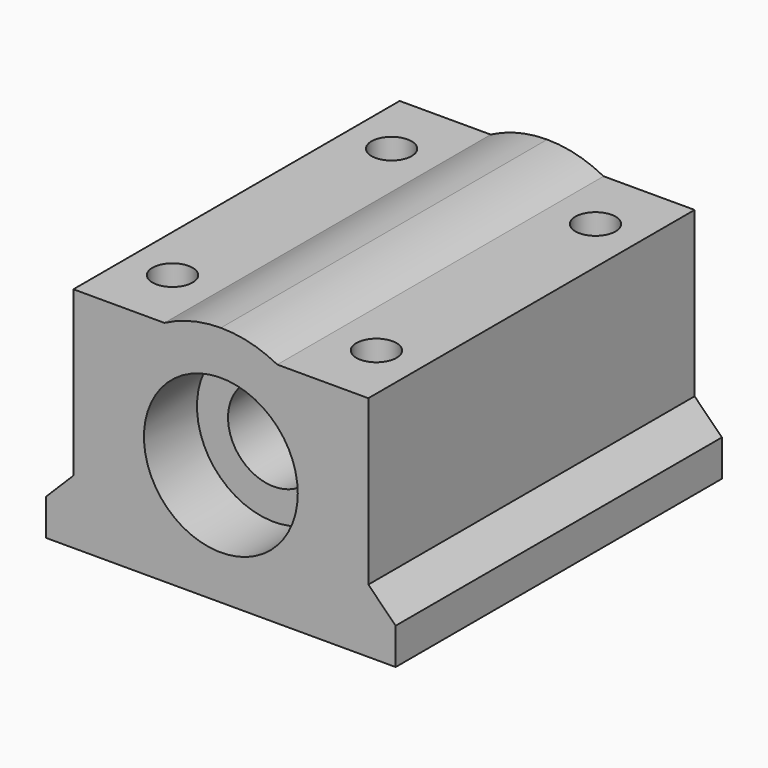
from build123d import *

# Parameters (mm, degrees)
F0_W     = 30.48
F0_H     = 35.56
F0_R     = 1.75
F1_DEPTH = 21.082
F2_R     = 4
F3_DEPTH = 35.56
F4_R     = 6.706248
F5_DEPTH = 5.779999
F6_R     = 6.706248
F7_DEPTH = 5.779999


with BuildPart() as f1:
    # F0 (on Top) → F1 (new body)
    with BuildSketch(Plane.XY):
        with Locations((15.24, -17.78)):
            Rectangle(F0_W, F0_H)
        with Locations((6.35, -29.718)):
            Circle(F0_R, mode=Mode.SUBTRACT)
        with Locations((24.13, -29.718)):
            Circle(F0_R, mode=Mode.SUBTRACT)
        with Locations((6.35, -5.842)):
            Circle(F0_R, mode=Mode.SUBTRACT)
        with Locations((24.13, -5.842)):
            Circle(F0_R, mode=Mode.SUBTRACT)
    extrude(amount=F1_DEPTH)

    # F2 (on face) → F3 (cut, through all)
    with BuildSketch(Plane.XZ.offset(35.56)):
        with Locations((15.24, 10.541)):
            Circle(F2_R)
        with BuildLine():
            ThreePointArc((10.31875, 19.862694), (12.704975, 20.772634), (15.24, 21.082))
            Line((15.24, 21.082), (0, 21.082))
            Line((0, 21.082), (0, 3.175))
            Line((0, 3.175), (2.38125, 5.55625))
            Line((2.38125, 5.55625), (2.38125, 19.862694))
            Line((2.38125, 19.862694), (10.31875, 19.862694))
        make_face()
        with BuildLine():
            ThreePointArc((15.24, 21.082), (17.775025, 20.772634), (20.16125, 19.862694))
            Line((20.16125, 19.862694), (28.09875, 19.862694))
            Line((28.09875, 19.862694), (28.09875, 5.55625))
            Line((28.09875, 5.55625), (30.48, 3.175))
            Line((30.48, 3.175), (30.48, 21.082))
            Line((30.48, 21.082), (15.24, 21.082))
        make_face()
    extrude(amount=-F3_DEPTH, mode=Mode.SUBTRACT)

    # F4 (on face) → F5 (cut)
    with BuildSketch(Plane.XZ.offset(35.56)):
        with Locations((15.24, 10.541)):
            Circle(F4_R)
    extrude(amount=-F5_DEPTH, mode=Mode.SUBTRACT)

    # F6 (on face) → F7 (cut)
    with BuildSketch(Plane(origin=(0, 0, 0), x_dir=(-1, 0, 0), z_dir=(0, 1, 0))):
        with Locations((-15.24, 10.541)):
            Circle(F6_R)
    extrude(amount=-F7_DEPTH, mode=Mode.SUBTRACT)


solid = f1.part
